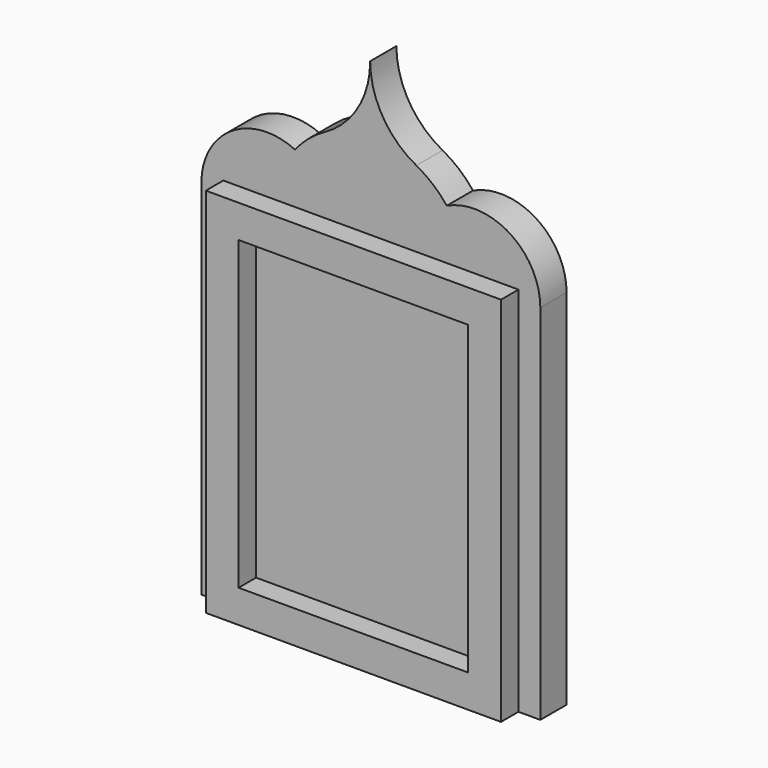
from build123d import *

# Parameters (mm, degrees)
F1_DEPTH = 19.05
F2_W     = 171.45
F2_H     = 215.9
F2_W_2   = 133.35
F2_H_2   = 177.8
F3_DEPTH = 12.7


with BuildPart() as f1:
    # F0 (on Front) → F1 (new body)
    with BuildSketch(Plane.XZ):
        with BuildLine():
            Line((-98.425, -133.35), (98.425, -133.35))
            Line((98.425, -133.35), (98.425, 77.419169))
            ThreePointArc((98.425, 77.419169), (80.719687, 109.600946), (44.059291, 111.872568))
            ThreePointArc((44.059291, 111.872568), (36.002014, 120.222357), (26.395227, 126.729917))
            ThreePointArc((26.395227, 126.729917), (6.848586, 145.313951), (-0.430385, 171.284205))
            ThreePointArc((-0.430385, 171.284205), (-7.4709, 145.248294), (-26.846302, 126.485796))
            ThreePointArc((-26.846302, 126.485796), (-36.197892, 120.056834), (-44.059291, 111.872568))
            ThreePointArc((-44.059291, 111.872568), (-80.719687, 109.600946), (-98.425, 77.419169))
            Line((-98.425, 77.419169), (-98.425, -133.35))
        make_face()
    extrude(amount=F1_DEPTH)

    # F2 (on face) → F3 (join)
    with BuildSketch(Plane.XZ.offset(19.05)):
        with Locations((0, -25.4)):
            Rectangle(F2_W, F2_H)
        with Locations((0, -25.4)):
            Rectangle(F2_W_2, F2_H_2, mode=Mode.SUBTRACT)
    extrude(amount=F3_DEPTH)


solid = f1.part
